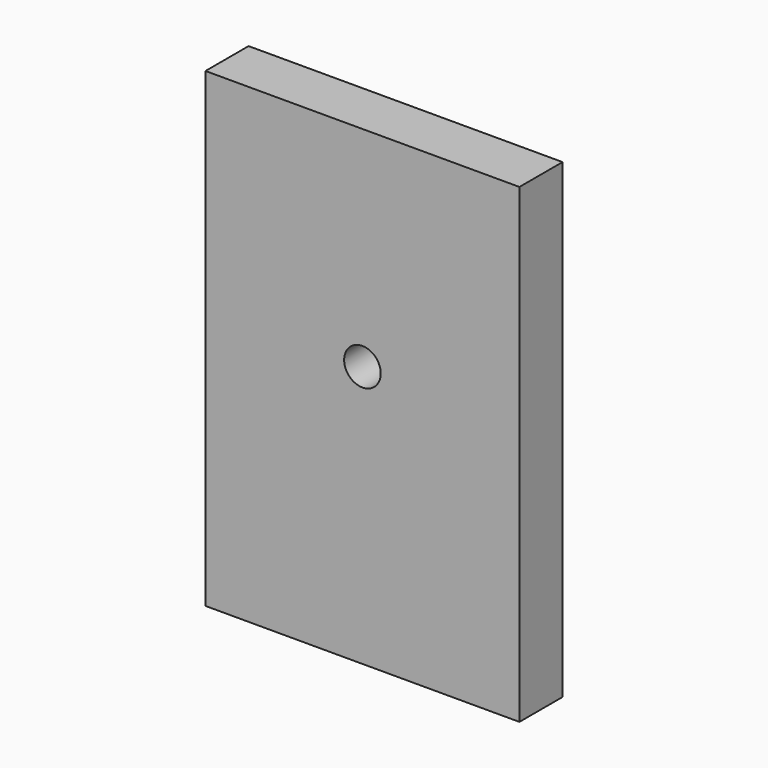
from build123d import *

# Parameters (mm, degrees)
F0_W     = 60
F0_H     = 90
F2_DEPTH = 10.3
F1_R     = 3.5
F3_DEPTH = 25.4


with BuildPart() as f2:
    # F0 (on Front) → F2 (new body)
    with BuildSketch(Plane.XZ):
        with Locations((0, -5)):
            Rectangle(F0_W, F0_H)
    extrude(amount=F2_DEPTH)

    # F1 (on face) → F3 (cut)
    with BuildSketch(Plane.XZ):
        Circle(F1_R)
    extrude(amount=F3_DEPTH, mode=Mode.SUBTRACT)


solid = f2.part
